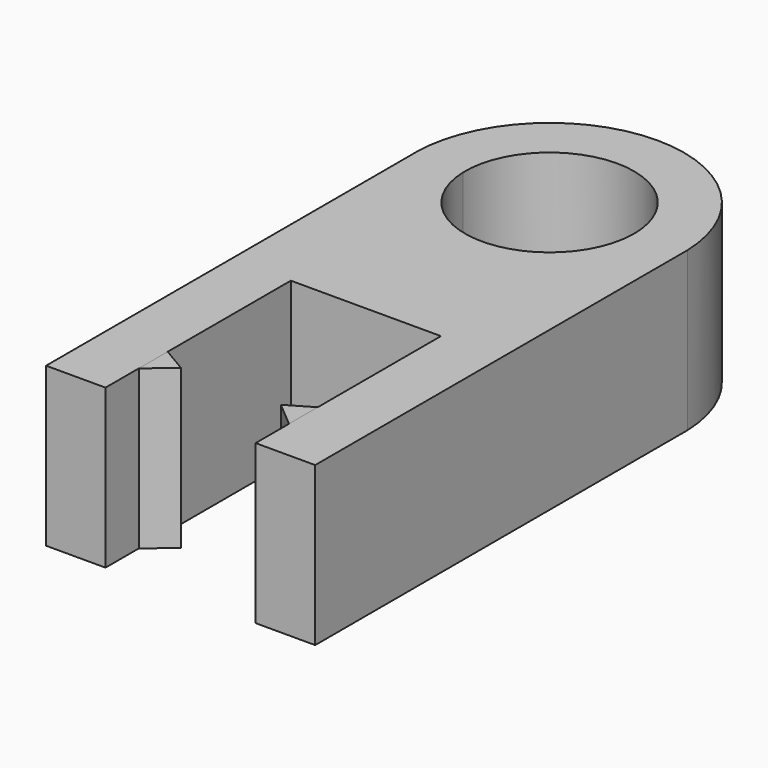
from build123d import *

# Parameters (mm, degrees)
F0_W     = 43.1191921234
F0_H     = 95.4580008984
F1_DEPTH = 25.4
F2_W     = 24.0557342768
F2_H     = 37.1173806489
F3_DEPTH = 25.4
F5_DEPTH = 25.4
F7_DEPTH = 25.4


with BuildPart() as f1:
    # F0 (on Top) → F1 (new body)
    with BuildSketch(Plane.XY):
        Rectangle(F0_W, F0_H)
    extrude(amount=F1_DEPTH)

    # F2 (on face) → F3 (cut)
    with BuildSketch(Plane.XY.offset(25.4)):
        with Locations((-0.0124685466, -29.1703101248)):
            Rectangle(F2_W, F2_H)
    extrude(amount=-F3_DEPTH, mode=Mode.SUBTRACT)

    # F4 (on face) → F5 (cut)
    with BuildSketch(Plane.XY.offset(25.4)):
        with BuildLine():
            Line((-21.5595960617, 47.7290004492), (-21.5595960617, 26.4798601785))
            ThreePointArc((-21.5595960617, 26.4798601785), (-15.1344515192, 41.5227064888), (0, 47.7290004492))
            Line((0, 47.7290004492), (-21.5595960617, 47.7290004492))
        make_face()
        with BuildLine():
            Line((21.5595960617, 47.7290004492), (0, 47.7290004492))
            ThreePointArc((0, 47.7290004492), (15.0165391551, 41.6455907019), (21.5595960617, 26.8235554615))
            Line((21.5595960617, 26.8235554615), (21.5595960617, 47.7290004492))
        make_face()
        with BuildLine():
            ThreePointArc((13.5477701598, 26.163185652), (-0.1864449052, 39.7057243609), (-13.5346324637, 25.7825455919))
            Line((-13.5346324637, 25.7825455919), (13.5346324637, 25.5667813763))
            ThreePointArc((13.5346324637, 25.5667813763), (13.5444853375, 25.8649111731), (13.5477701598, 26.163185652))
        make_face()
        with BuildLine():
            Line((13.5346324637, 25.5667813763), (-13.5346324637, 25.7825455919))
            ThreePointArc((-13.5346324637, 25.7825455919), (-0.1040584372, 12.6197396416), (13.5346324637, 25.5667813763))
        make_face()
    extrude(amount=-F5_DEPTH, mode=Mode.SUBTRACT)


with BuildPart() as f7:
    # F6 (on face) → F7 (new body)
    with BuildSketch(Plane.XY.offset(25.4)):
        Polygon((-12.040335685, -35.2688357234), (-12.040335685, -41.066378355), (-8.0067142844, -37.6541092992), align=None)
    extrude(amount=-F7_DEPTH)


with BuildPart() as f7b:
    # F6 (on face) → F7, piece 2 (new body)
    with BuildSketch(Plane.XY.offset(25.4)):
        Polygon((12.0153985918, -41.0452826539), (12.0153985918, -35.2835822213), (8.0067142844, -37.6541092992), align=None)
    extrude(amount=-F7_DEPTH)


solid = Compound([f1.part, f7.part, f7b.part])
